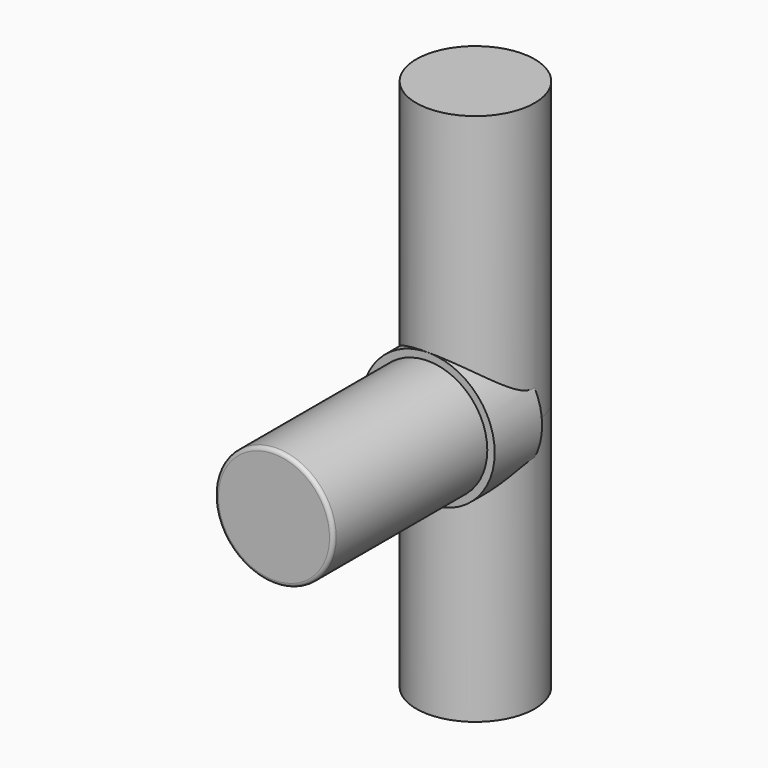
from build123d import *

# Parameters (mm, degrees)
F0_R     = 28.575
F1_DEPTH = 25.4
F2_R     = 25.4
F3_DEPTH = 82.55
F4_R     = 25.4
F5_DEPTH = 107.95
F6_R     = 25.4
F7_DEPTH = 120.65
F8_R     = 1.5875


with BuildPart() as f1:
    # F0 (on Front) → F1 (new body)
    with BuildSketch(Plane.XZ):
        Circle(F0_R)
    extrude(amount=F1_DEPTH)

    # F2 (on face) → F3 (join)
    with BuildSketch(Plane.XZ.offset(25.4)):
        Circle(F2_R)
    extrude(amount=F3_DEPTH)

    # F4 (on Top) → F5 (join)
    with BuildSketch(Plane.XY):
        Circle(F4_R)
    extrude(amount=-F5_DEPTH)

    # F6 (on Top) → F7 (join)
    with BuildSketch(Plane.XY):
        Circle(F6_R)
    extrude(amount=F7_DEPTH)

    # F8
    f8_edges = [f1.edges().sort_by_distance(p)[0] for p in [
        (-25.4, -107.95, 0),
    ]]
    fillet(f8_edges, radius=F8_R)


solid = f1.part
